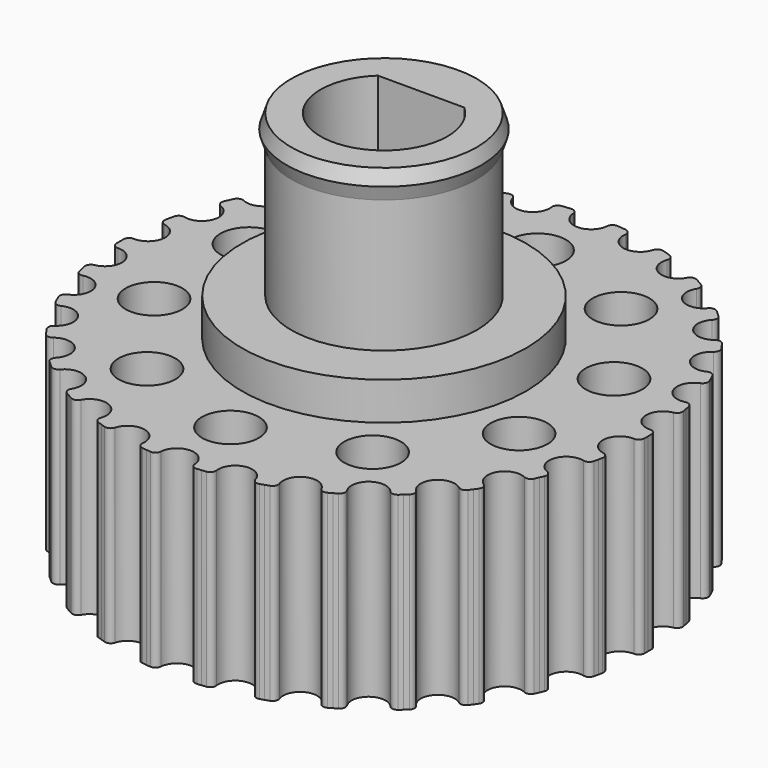
from build123d import *

# Parameters (mm, degrees)
F3_R     = 1.5
F3_R_2   = 7.5
F3_R_3   = 4.9
F4_DEPTH = 10
F5_DEPTH = 12
F6_DEPTH = 20.5


with BuildPart() as f4:
    # F3 (on Top) → F4 (new body)
    with BuildSketch(Plane.XY):
        with BuildLine():
            ThreePointArc((0.8978640127, 13.6109419175), (0.6140958725, 13.0149704588), (0, 12.7729113827))
            ThreePointArc((0, 12.7729113827), (-0.6140958725, 13.0149704588), (-0.8978640127, 13.6109419175))
            ThreePointArc((-0.8978640127, 13.6109419175), (-1.0022824589, 13.8183771987), (-1.2234767211, 13.8891282138))
            ThreePointArc((-1.2234767211, 13.8891282138), (-1.340501529, 13.8783224302), (-1.4574311003, 13.8665306553))
            ThreePointArc((-1.4574311003, 13.8665306553), (-1.5742571279, 13.8537537268), (-1.6909713116, 13.8399925524))
            ThreePointArc((-1.6909713116, 13.8399925524), (-1.8926219853, 13.7247987436), (-1.9516304178, 13.5001866054))
            ThreePointArc((-1.9516304178, 13.5001866054), (-2.6556376022, 12.4937926234), (-3.7081174775, 13.1268337553))
            ThreePointArc((-3.7081174775, 13.1268337553), (-3.8533823502, 13.3080262622), (-4.0844529502, 13.3312423249))
            ThreePointArc((-4.0844529502, 13.3312423249), (-4.1966738365, 13.2963418479), (-4.3085965683, 13.2604967267))
            ThreePointArc((-4.3085965683, 13.2604967267), (-4.4202131941, 13.2237095078), (-4.5315157839, 13.1859828048))
            ThreePointArc((-4.5315157839, 13.1859828048), (-4.7048097669, 13.0313807246), (-4.7158292342, 12.7994083575))
            ThreePointArc((-4.7158292342, 12.7994083575), (-5.1952110981, 11.6686351746), (-6.3563084151, 12.0690199685))
            ThreePointArc((-6.3563084151, 12.0690199685), (-6.5360709422, 12.2160507191), (-6.766918986, 12.1907171759))
            ThreePointArc((-6.766918986, 12.1907171759), (-6.8694313595, 12.1332473239), (-6.9714556914, 12.0749154602))
            ThreePointArc((-6.9714556914, 12.0749154602), (-7.0729847331, 12.0157257289), (-7.1740112717, 11.9556823352))
            ThreePointArc((-7.1740112717, 11.9556823352), (-7.3113747856, 11.7684288364), (-7.273923684, 11.539234546))
            ThreePointArc((-7.273923684, 11.539234546), (-7.5077289396, 10.3335023763), (-8.7266981739, 10.4837320955))
            ThreePointArc((-8.7266981739, 10.4837320955), (-8.9331018704, 10.5901751404), (-9.1536381909, 10.5173991889))
            ThreePointArc((-9.1536381909, 10.5173991889), (-9.241961769, 10.4398716701), (-9.3296287479, 10.3616024462))
            ThreePointArc((-9.3296287479, 10.3616024462), (-9.4166328994, 10.2825970778), (-9.5029680422, 10.2028611779))
            ThreePointArc((-9.5029680422, 10.2028611779), (-9.5983976422, 9.9911401369), (-9.5141127646, 9.7747408134))
            ThreePointArc((-9.5141127646, 9.7747408134), (-9.4921230004, 8.5467459385), (-10.7156893472, 8.4402548233))
            ThreePointArc((-10.7156893472, 8.4402548233), (-10.9397133812, 8.5014580908), (-11.1402994827, 8.3844203891))
            ThreePointArc((-11.1402994827, 8.3844203891), (-11.2105741012, 8.2902235282), (-11.2800522597, 8.1954376848))
            ThreePointArc((-11.2800522597, 8.1954376848), (-11.348729022, 8.100069593), (-11.416599509, 8.0041260283))
            ThreePointArc((-11.416599509, 8.0041260283), (-11.4659244637, 7.7771906705), (-11.3384894636, 7.5830440029))
            ThreePointArc((-11.3384894636, 7.5830440029), (-11.0616657377, 6.3864556914), (-12.2363534764, 6.0278979146))
            ThreePointArc((-12.2363534764, 6.0278979146), (-12.4682069226, 6.0411865282), (-12.6400762301, 5.8850021855))
            ThreePointArc((-12.6400762301, 5.8850021855), (-12.689230551, 5.7782528372), (-12.73748336, 5.6710929705))
            ThreePointArc((-12.73748336, 5.6710929705), (-12.7848312291, 5.5635301986), (-12.8312707944, 5.4555721632))
            ThreePointArc((-12.8312707944, 5.4555721632), (-12.8323353665, 5.2233406528), (-12.667319765, 5.059931782))
            ThreePointArc((-12.667319765, 5.059931782), (-12.1477606026, 3.9470466849), (-13.2222302422, 3.3520929419))
            ThreePointArc((-13.2222302422, 3.3520929419), (-13.4517799924, 3.3168861254), (-13.5874209924, 3.128381147))
            ThreePointArc((-13.5874209924, 3.128381147), (-13.613306736, 3.0137447701), (-13.6382253163, 2.8988942805))
            ThreePointArc((-13.6382253163, 2.8988942805), (-13.662174963, 2.7838378377), (-13.6851539747, 2.6685836159))
            ThreePointArc((-13.6851539747, 2.6685836159), (-13.6379116374, 2.4412055842), (-13.4425274081, 2.315676262))
            ThreePointArc((-13.4425274081, 2.315676262), (-12.7029400377, 1.3351327983), (-13.6302320991, 0.5297854225))
            ThreePointArc((-13.6302320991, 0.5297854225), (-13.8474457277, 0.4476218827), (-13.9409302577, 0.2350348407))
            ThreePointArc((-13.9409302577, 0.2350348407), (-13.9424160927, 0.117521595), (-13.9429113827, 0))
            ThreePointArc((-13.9429113827, 0), (-13.9424160927, -0.117521595), (-13.9409302577, -0.2350348407))
            ThreePointArc((-13.9409302577, -0.2350348407), (-13.8474457277, -0.4476218827), (-13.6302320991, -0.5297854225))
            ThreePointArc((-13.6302320991, -0.5297854225), (-12.7029400377, -1.3351327983), (-13.4425274081, -2.315676262))
            ThreePointArc((-13.4425274081, -2.315676262), (-13.6379116374, -2.4412055842), (-13.6851539747, -2.6685836159))
            ThreePointArc((-13.6851539747, -2.6685836159), (-13.662174963, -2.7838378377), (-13.6382253163, -2.8988942805))
            ThreePointArc((-13.6382253163, -2.8988942805), (-13.613306736, -3.0137447701), (-13.5874209924, -3.128381147))
            ThreePointArc((-13.5874209924, -3.128381147), (-13.4517799924, -3.3168861254), (-13.2222302422, -3.3520929419))
            ThreePointArc((-13.2222302422, -3.3520929419), (-12.1477606026, -3.9470466849), (-12.667319765, -5.059931782))
            ThreePointArc((-12.667319765, -5.059931782), (-12.8323353665, -5.2233406528), (-12.8312707944, -5.4555721632))
            ThreePointArc((-12.8312707944, -5.4555721632), (-12.7848312291, -5.5635301986), (-12.73748336, -5.6710929705))
            ThreePointArc((-12.73748336, -5.6710929705), (-12.689230551, -5.7782528372), (-12.6400762301, -5.8850021855))
            ThreePointArc((-12.6400762301, -5.8850021855), (-12.4682069226, -6.0411865282), (-12.2363534764, -6.0278979146))
            ThreePointArc((-12.2363534764, -6.0278979146), (-11.0616657377, -6.3864556914), (-11.3384894636, -7.5830440029))
            ThreePointArc((-11.3384894636, -7.5830440029), (-11.4659244637, -7.7771906705), (-11.416599509, -8.0041260283))
            ThreePointArc((-11.416599509, -8.0041260283), (-11.348729022, -8.100069593), (-11.2800522597, -8.1954376848))
            ThreePointArc((-11.2800522597, -8.1954376848), (-11.2105741012, -8.2902235282), (-11.1402994827, -8.3844203891))
            ThreePointArc((-11.1402994827, -8.3844203891), (-10.9397133812, -8.5014580908), (-10.7156893472, -8.4402548233))
            ThreePointArc((-10.7156893472, -8.4402548233), (-9.4921230004, -8.5467459385), (-9.5141127646, -9.7747408134))
            ThreePointArc((-9.5141127646, -9.7747408134), (-9.5983976422, -9.9911401369), (-9.5029680422, -10.2028611779))
            ThreePointArc((-9.5029680422, -10.2028611779), (-9.4166328994, -10.2825970778), (-9.3296287479, -10.3616024462))
            ThreePointArc((-9.3296287479, -10.3616024462), (-9.241961769, -10.4398716701), (-9.1536381909, -10.5173991889))
            ThreePointArc((-9.1536381909, -10.5173991889), (-8.9331018704, -10.5901751404), (-8.7266981739, -10.4837320955))
            ThreePointArc((-8.7266981739, -10.4837320955), (-7.5077289396, -10.3335023763), (-7.273923684, -11.539234546))
            ThreePointArc((-7.273923684, -11.539234546), (-7.3113747856, -11.7684288364), (-7.1740112717, -11.9556823352))
            ThreePointArc((-7.1740112717, -11.9556823352), (-7.0729847331, -12.0157257289), (-6.9714556914, -12.0749154602))
            ThreePointArc((-6.9714556914, -12.0749154602), (-6.8694313595, -12.1332473239), (-6.766918986, -12.1907171759))
            ThreePointArc((-6.766918986, -12.1907171759), (-6.5360709422, -12.2160507191), (-6.3563084151, -12.0690199685))
            ThreePointArc((-6.3563084151, -12.0690199685), (-5.1952110981, -11.6686351746), (-4.7158292342, -12.7994083575))
            ThreePointArc((-4.7158292342, -12.7994083575), (-4.7048097669, -13.0313807246), (-4.5315157839, -13.1859828048))
            ThreePointArc((-4.5315157839, -13.1859828048), (-4.4202131941, -13.2237095078), (-4.3085965683, -13.2604967267))
            ThreePointArc((-4.3085965683, -13.2604967267), (-4.1966738365, -13.2963418479), (-4.0844529502, -13.3312423249))
            ThreePointArc((-4.0844529502, -13.3312423249), (-3.8533823502, -13.3080262622), (-3.7081174775, -13.1268337553))
            ThreePointArc((-3.7081174775, -13.1268337553), (-2.6556376022, -12.4937926234), (-1.9516304178, -13.5001866054))
            ThreePointArc((-1.9516304178, -13.5001866054), (-1.8926219853, -13.7247987436), (-1.6909713116, -13.8399925524))
            ThreePointArc((-1.6909713116, -13.8399925524), (-1.5742571279, -13.8537537268), (-1.4574311003, -13.8665306553))
            ThreePointArc((-1.4574311003, -13.8665306553), (-1.340501529, -13.8783224302), (-1.2234767211, -13.8891282138))
            ThreePointArc((-1.2234767211, -13.8891282138), (-1.0022824589, -13.8183771987), (-0.8978640127, -13.6109419175))
            ThreePointArc((-0.8978640127, -13.6109419175), (0, -12.7729113827), (0.8978640127, -13.6109419175))
            ThreePointArc((0.8978640127, -13.6109419175), (1.0022824589, -13.8183771987), (1.2234767211, -13.8891282138))
            ThreePointArc((1.2234767211, -13.8891282138), (1.340501529, -13.8783224302), (1.4574311003, -13.8665306553))
            ThreePointArc((1.4574311003, -13.8665306553), (1.5742571279, -13.8537537268), (1.6909713116, -13.8399925524))
            ThreePointArc((1.6909713116, -13.8399925524), (1.8926219853, -13.7247987436), (1.9516304178, -13.5001866054))
            ThreePointArc((1.9516304178, -13.5001866054), (2.6556376022, -12.4937926234), (3.7081174775, -13.1268337553))
            ThreePointArc((3.7081174775, -13.1268337553), (3.8533823502, -13.3080262622), (4.0844529502, -13.3312423249))
            ThreePointArc((4.0844529502, -13.3312423249), (4.1966738365, -13.2963418479), (4.3085965683, -13.2604967267))
            ThreePointArc((4.3085965683, -13.2604967267), (4.4202131941, -13.2237095078), (4.5315157839, -13.1859828048))
            ThreePointArc((4.5315157839, -13.1859828048), (4.7048097669, -13.0313807246), (4.7158292342, -12.7994083575))
            ThreePointArc((4.7158292342, -12.7994083575), (5.1952110981, -11.6686351746), (6.3563084151, -12.0690199685))
            ThreePointArc((6.3563084151, -12.0690199685), (6.5360709422, -12.2160507191), (6.766918986, -12.1907171759))
            ThreePointArc((6.766918986, -12.1907171759), (6.8694313595, -12.1332473239), (6.9714556914, -12.0749154602))
            ThreePointArc((6.9714556914, -12.0749154602), (7.0729847331, -12.0157257289), (7.1740112717, -11.9556823352))
            ThreePointArc((7.1740112717, -11.9556823352), (7.3113747856, -11.7684288364), (7.273923684, -11.539234546))
            ThreePointArc((7.273923684, -11.539234546), (7.5077289396, -10.3335023763), (8.7266981739, -10.4837320955))
            ThreePointArc((8.7266981739, -10.4837320955), (8.9331018704, -10.5901751404), (9.1536381909, -10.5173991889))
            ThreePointArc((9.1536381909, -10.5173991889), (9.241961769, -10.4398716701), (9.3296287479, -10.3616024462))
            ThreePointArc((9.3296287479, -10.3616024462), (9.4166328994, -10.2825970778), (9.5029680422, -10.2028611779))
            ThreePointArc((9.5029680422, -10.2028611779), (9.5983976422, -9.9911401369), (9.5141127646, -9.7747408134))
            ThreePointArc((9.5141127646, -9.7747408134), (9.4921230004, -8.5467459385), (10.7156893472, -8.4402548233))
            ThreePointArc((10.7156893472, -8.4402548233), (10.9397133812, -8.5014580908), (11.1402994827, -8.3844203891))
            ThreePointArc((11.1402994827, -8.3844203891), (11.2105741012, -8.2902235282), (11.2800522597, -8.1954376848))
            ThreePointArc((11.2800522597, -8.1954376848), (11.348729022, -8.100069593), (11.416599509, -8.0041260283))
            ThreePointArc((11.416599509, -8.0041260283), (11.4659244637, -7.7771906705), (11.3384894636, -7.5830440029))
            ThreePointArc((11.3384894636, -7.5830440029), (11.0616657377, -6.3864556914), (12.2363534764, -6.0278979146))
            ThreePointArc((12.2363534764, -6.0278979146), (12.4682069226, -6.0411865282), (12.6400762301, -5.8850021855))
            ThreePointArc((12.6400762301, -5.8850021855), (12.689230551, -5.7782528372), (12.73748336, -5.6710929705))
            ThreePointArc((12.73748336, -5.6710929705), (12.7848312291, -5.5635301986), (12.8312707944, -5.4555721632))
            ThreePointArc((12.8312707944, -5.4555721632), (12.8323353665, -5.2233406528), (12.667319765, -5.059931782))
            ThreePointArc((12.667319765, -5.059931782), (12.1477606026, -3.9470466849), (13.2222302422, -3.3520929419))
            ThreePointArc((13.2222302422, -3.3520929419), (13.4517799924, -3.3168861254), (13.5874209924, -3.128381147))
            ThreePointArc((13.5874209924, -3.128381147), (13.613306736, -3.0137447701), (13.6382253163, -2.8988942805))
            ThreePointArc((13.6382253163, -2.8988942805), (13.662174963, -2.7838378377), (13.6851539747, -2.6685836159))
            ThreePointArc((13.6851539747, -2.6685836159), (13.6379116374, -2.4412055842), (13.4425274081, -2.315676262))
            ThreePointArc((13.4425274081, -2.315676262), (12.7029400377, -1.3351327983), (13.6302320991, -0.5297854225))
            ThreePointArc((13.6302320991, -0.5297854225), (13.8474457277, -0.4476218827), (13.9409302577, -0.2350348407))
            ThreePointArc((13.9409302577, -0.2350348407), (13.9424160927, -0.117521595), (13.9429113827, 0))
            ThreePointArc((13.9429113827, 0), (13.9424160927, 0.117521595), (13.9409302577, 0.2350348407))
            ThreePointArc((13.9409302577, 0.2350348407), (13.8474457277, 0.4476218827), (13.6302320991, 0.5297854225))
            ThreePointArc((13.6302320991, 0.5297854225), (12.7029400377, 1.3351327983), (13.4425274081, 2.315676262))
            ThreePointArc((13.4425274081, 2.315676262), (13.6379116374, 2.4412055842), (13.6851539747, 2.6685836159))
            ThreePointArc((13.6851539747, 2.6685836159), (13.662174963, 2.7838378377), (13.6382253163, 2.8988942805))
            ThreePointArc((13.6382253163, 2.8988942805), (13.613306736, 3.0137447701), (13.5874209924, 3.128381147))
            ThreePointArc((13.5874209924, 3.128381147), (13.4517799924, 3.3168861254), (13.2222302422, 3.3520929419))
            ThreePointArc((13.2222302422, 3.3520929419), (12.1477606026, 3.9470466849), (12.667319765, 5.059931782))
            ThreePointArc((12.667319765, 5.059931782), (12.8323353665, 5.2233406528), (12.8312707944, 5.4555721632))
            ThreePointArc((12.8312707944, 5.4555721632), (12.7848312291, 5.5635301986), (12.73748336, 5.6710929705))
            ThreePointArc((12.73748336, 5.6710929705), (12.689230551, 5.7782528372), (12.6400762301, 5.8850021855))
            ThreePointArc((12.6400762301, 5.8850021855), (12.4682069226, 6.0411865282), (12.2363534764, 6.0278979146))
            ThreePointArc((12.2363534764, 6.0278979146), (11.0616657377, 6.3864556914), (11.3384894636, 7.5830440029))
            ThreePointArc((11.3384894636, 7.5830440029), (11.4659244637, 7.7771906705), (11.416599509, 8.0041260283))
            ThreePointArc((11.416599509, 8.0041260283), (11.348729022, 8.100069593), (11.2800522597, 8.1954376848))
            ThreePointArc((11.2800522597, 8.1954376848), (11.2105741012, 8.2902235282), (11.1402994827, 8.3844203891))
            ThreePointArc((11.1402994827, 8.3844203891), (10.9397133812, 8.5014580908), (10.7156893472, 8.4402548233))
            ThreePointArc((10.7156893472, 8.4402548233), (9.4921230004, 8.5467459385), (9.5141127646, 9.7747408134))
            ThreePointArc((9.5141127646, 9.7747408134), (9.5983976422, 9.9911401369), (9.5029680422, 10.2028611779))
            ThreePointArc((9.5029680422, 10.2028611779), (9.4166328994, 10.2825970778), (9.3296287479, 10.3616024462))
            ThreePointArc((9.3296287479, 10.3616024462), (9.241961769, 10.4398716701), (9.1536381909, 10.5173991889))
            ThreePointArc((9.1536381909, 10.5173991889), (8.9331018704, 10.5901751404), (8.7266981739, 10.4837320955))
            ThreePointArc((8.7266981739, 10.4837320955), (7.5077289396, 10.3335023763), (7.273923684, 11.539234546))
            ThreePointArc((7.273923684, 11.539234546), (7.3113747856, 11.7684288364), (7.1740112717, 11.9556823352))
            ThreePointArc((7.1740112717, 11.9556823352), (7.0729847331, 12.0157257289), (6.9714556914, 12.0749154602))
            ThreePointArc((6.9714556914, 12.0749154602), (6.8694313595, 12.1332473239), (6.766918986, 12.1907171759))
            ThreePointArc((6.766918986, 12.1907171759), (6.5360709422, 12.2160507191), (6.3563084151, 12.0690199685))
            ThreePointArc((6.3563084151, 12.0690199685), (5.1952110981, 11.6686351746), (4.7158292342, 12.7994083575))
            ThreePointArc((4.7158292342, 12.7994083575), (4.7048097669, 13.0313807246), (4.5315157839, 13.1859828048))
            ThreePointArc((4.5315157839, 13.1859828048), (4.4202131941, 13.2237095078), (4.3085965683, 13.2604967267))
            ThreePointArc((4.3085965683, 13.2604967267), (4.1966738365, 13.2963418479), (4.0844529502, 13.3312423249))
            ThreePointArc((4.0844529502, 13.3312423249), (3.8533823502, 13.3080262622), (3.7081174775, 13.1268337553))
            ThreePointArc((3.7081174775, 13.1268337553), (2.6556376022, 12.4937926234), (1.9516304178, 13.5001866054))
            ThreePointArc((1.9516304178, 13.5001866054), (1.8926219853, 13.7247987436), (1.6909713116, 13.8399925524))
            ThreePointArc((1.6909713116, 13.8399925524), (1.5742571279, 13.8537537268), (1.4574311003, 13.8665306553))
            ThreePointArc((1.4574311003, 13.8665306553), (1.340501529, 13.8783224302), (1.2234767211, 13.8891282138))
            ThreePointArc((1.2234767211, 13.8891282138), (1.0022824589, 13.8183771987), (0.8978640127, 13.6109419175))
        make_face()
        with Locations((-5.9580591659, -8.200564917)):
            Circle(F3_R, mode=Mode.SUBTRACT)
        with Locations((-9.6403422374, -3.1323370714)):
            Circle(F3_R, mode=Mode.SUBTRACT)
        with Locations((0, -10.1364556914)):
            Circle(F3_R, mode=Mode.SUBTRACT)
        with Locations((5.9580591659, -8.200564917)):
            Circle(F3_R, mode=Mode.SUBTRACT)
        with Locations((9.6403422374, -3.1323370714)):
            Circle(F3_R, mode=Mode.SUBTRACT)
        with Locations((-9.6403422374, 3.1323370714)):
            Circle(F3_R, mode=Mode.SUBTRACT)
        with Locations((-5.9580591659, 8.200564917)):
            Circle(F3_R, mode=Mode.SUBTRACT)
        Circle(F3_R_2, mode=Mode.SUBTRACT)
        with Locations((9.6403422374, 3.1323370714)):
            Circle(F3_R, mode=Mode.SUBTRACT)
        with Locations((0, 10.1364556914)):
            Circle(F3_R, mode=Mode.SUBTRACT)
        with Locations((5.9580591659, 8.200564917)):
            Circle(F3_R, mode=Mode.SUBTRACT)
        Circle(F3_R_2)
        Circle(F3_R_3, mode=Mode.SUBTRACT)
        Circle(F3_R_3)
        with BuildLine():
            ThreePointArc((-2.2847319318, -2.45), (-3.35, 0), (-2.2847319318, 2.45))
            Line((-2.2847319318, 2.45), (2.2847319318, 2.45))
            ThreePointArc((2.2847319318, 2.45), (3.35, 0), (2.2847319318, -2.45))
            ThreePointArc((2.2847319318, -2.45), (0, -3.35), (-2.2847319318, -2.45))
        make_face(mode=Mode.SUBTRACT)
    extrude(amount=F4_DEPTH)



with BuildPart() as f5:
    # F3 (on Top) → F5 (new body)
    with BuildSketch(Plane.XY):
        Circle(F3_R_2)
        Circle(F3_R_3, mode=Mode.SUBTRACT)
        Circle(F3_R_3)
        with BuildLine():
            ThreePointArc((-2.2847319318, -2.45), (-3.35, 0), (-2.2847319318, 2.45))
            Line((-2.2847319318, 2.45), (2.2847319318, 2.45))
            ThreePointArc((2.2847319318, 2.45), (3.35, 0), (2.2847319318, -2.45))
            ThreePointArc((2.2847319318, -2.45), (0, -3.35), (-2.2847319318, -2.45))
        make_face(mode=Mode.SUBTRACT)
    extrude(amount=F5_DEPTH)


with BuildPart() as f4_1:
    add(f4.part)

    add(f5.part)  # F6 merges F5
    # F3 (on Top) → F6 (join)
    with BuildSketch(Plane.XY):
        Circle(F3_R_3)
        with BuildLine():
            ThreePointArc((-2.2847319318, -2.45), (-3.35, 0), (-2.2847319318, 2.45))
            Line((-2.2847319318, 2.45), (2.2847319318, 2.45))
            ThreePointArc((2.2847319318, 2.45), (3.35, 0), (2.2847319318, -2.45))
            ThreePointArc((2.2847319318, -2.45), (0, -3.35), (-2.2847319318, -2.45))
        make_face(mode=Mode.SUBTRACT)
    extrude(amount=F6_DEPTH)

    # F7 (on Front) → F8 (revolve)
    with BuildSketch(Plane.XZ):
        Polygon((5.15, 19.75), (4.9, 20.5), (4.9, 19), align=None)
    revolve(axis=Axis((0, 0, 8.7542282417), (0, 0, 1)))


solid = f4_1.part
